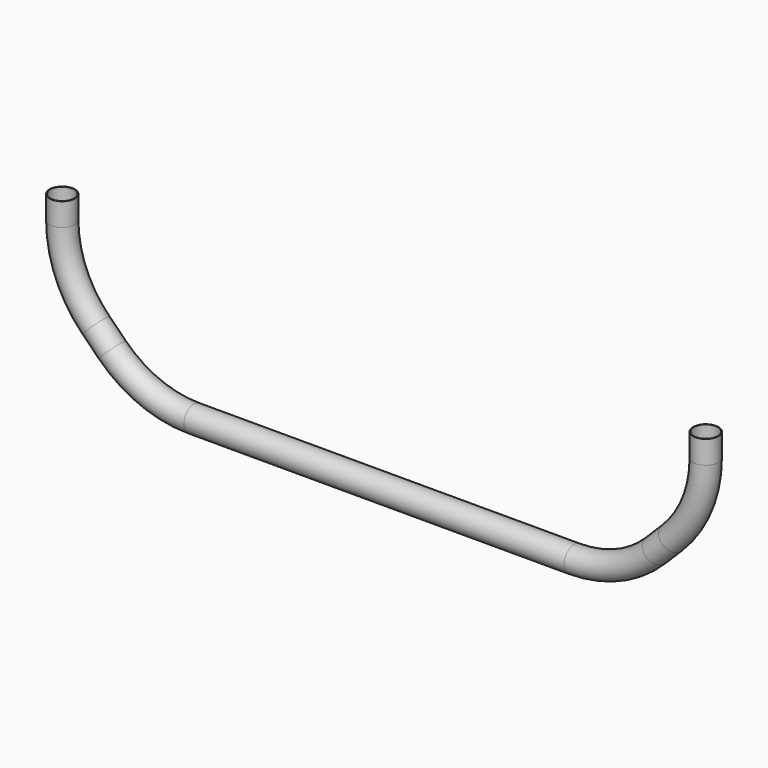
from build123d import *

# Parameters (mm, degrees)
F2_R        = 109.55
F2_R_2      = 104.55
F3_DEPTH    = 199.999644
F3_FACE_R   = 109.55
F3_FACE_R_2 = 104.55


with BuildPart() as f3:
    # F2 (on offset) → F3 (new body, through all)
    with BuildSketch(Plane.XY.offset(1341.421)):
        with Locations((-2790.45, 0)):
            Circle(F2_R)
        with Locations((-2790.45, 0)):
            Circle(F2_R_2, mode=Mode.SUBTRACT)
    extrude(amount=-F3_DEPTH)

    # F4: sweep along a path in F0
    with BuildLine(Plane.XZ) as f4_path:
        ThreePointArc((-2900, 1141.421356), (-2815.540535, 716.814954), (-2575.020329, 356.851027))
        Line((-2575.020329, 356.851027), (-2433.598973, 215.429671))
        ThreePointArc((-2433.598973, 215.429671), (-2073.635046, -25.090535), (-1649.028644, -109.55))
        Line((-1649.028644, -109.55), (0, -109.55))
        Line((0, -109.55), (1649.028644, -109.55))
        ThreePointArc((1649.028644, -109.55), (2073.635046, -25.090535), (2433.598973, 215.429671))
        Line((2433.598973, 215.429671), (2575.020329, 356.851027))
        ThreePointArc((2575.020329, 356.851027), (2815.540535, 716.814954), (2900, 1141.421356))
        Line((2900, 1141.421356), (2900, 1341.421356))
    # F3_face (on face) → F4 (sweep)
    with BuildSketch(Plane(origin=(-2790.45, 0, 1141.421356), x_dir=(1, 0, 0), z_dir=(0, 0, -1))):
        Circle(F3_FACE_R)
        Circle(F3_FACE_R_2, mode=Mode.SUBTRACT)
    sweep(path=f4_path.line)


solid = f3.part
